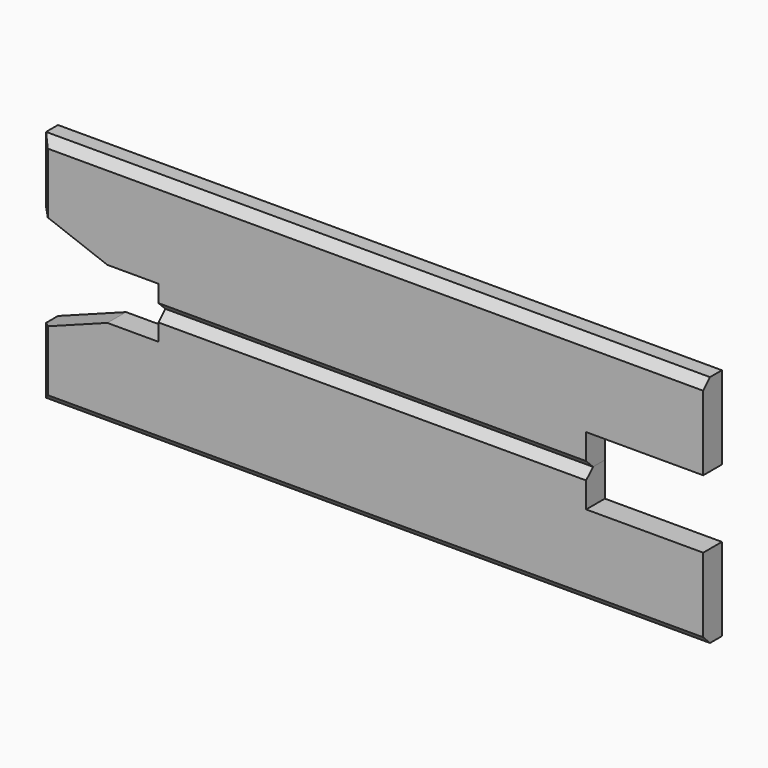
from build123d import *

# Parameters (mm, degrees)
F0_W      = 495.3
F0_H      = 87.3125
F1_DEPTH  = 17.4625
F2_W      = 495.3
F2_H      = 17.4625
F3_DEPTH  = 87.3125
F5_DEPTH  = 25.4
F6_SIZE   = 6.35
F6_2_SIZE = 6.35
F7_SIZE   = 6.35


with BuildPart() as f1:
    # F0 (on Front) → F1 (new body)
    with BuildSketch(Plane.XZ):
        with Locations((247.65, 43.65625)):
            Rectangle(F0_W, F0_H)
    extrude(amount=F1_DEPTH)


with BuildPart() as f3:
    # F2 (on face) → F3 (new body)
    with BuildSketch(Plane(origin=(0, 0, 0), x_dir=(1, 0, 0), z_dir=(0, 0, -1))):
        with Locations((247.65, 8.73125)):
            Rectangle(F2_W, F2_H)
    extrude(amount=F3_DEPTH)


with BuildPart() as f5_tool:
    # F4 (on face) → F5 (new body)
    with BuildSketch(Plane.XZ.offset(17.4625)):
        Polygon((495.3, -25.4), (495.3, 0), (495.3, 25.4), (407.9875, 25.4), (407.9875, 0), (407.9875, -25.4), align=None)
        Polygon((50.8, 19.05), (0, 38.1), (0, 0), (88.9, 0), (88.9, 19.05), align=None)
        Polygon((88.9, 0), (0, 0), (0, -38.1), (50.8, -19.05), (88.9, -19.05), align=None)
    extrude(amount=-F5_DEPTH)


with BuildPart() as f1_1:
    add(f1.part)

    # F5: cut by f5_tool
    add(f5_tool.part, mode=Mode.SUBTRACT)

    # F6
    f6_edges = [f1_1.edges().sort_by_distance(p)[0] for p in [
        (247.65, -17.4625, 87.3125),
        (248.44375, -17.4625, 0),
        (0, -17.4625, 62.70625),
    ]]
    chamfer(f6_edges, length=F6_SIZE)


with BuildPart() as f3_1:
    add(f3.part)

    # F5: cut by f5_tool
    add(f5_tool.part, mode=Mode.SUBTRACT)

    # F6#2
    f6_2_edges = [f3_1.edges().sort_by_distance(p)[0] for p in [
        (247.65, -17.4625, -87.3125),
        (0, -17.4625, -62.70625),
    ]]
    chamfer(f6_2_edges, length=F6_2_SIZE)

    # F7
    f7_edges = [f3_1.edges().sort_by_distance(p)[0] for p in [
        (248.44375, -17.4625, 0),
    ]]
    chamfer(f7_edges, length=F7_SIZE)


solid = Compound([f1_1.part, f3_1.part])
